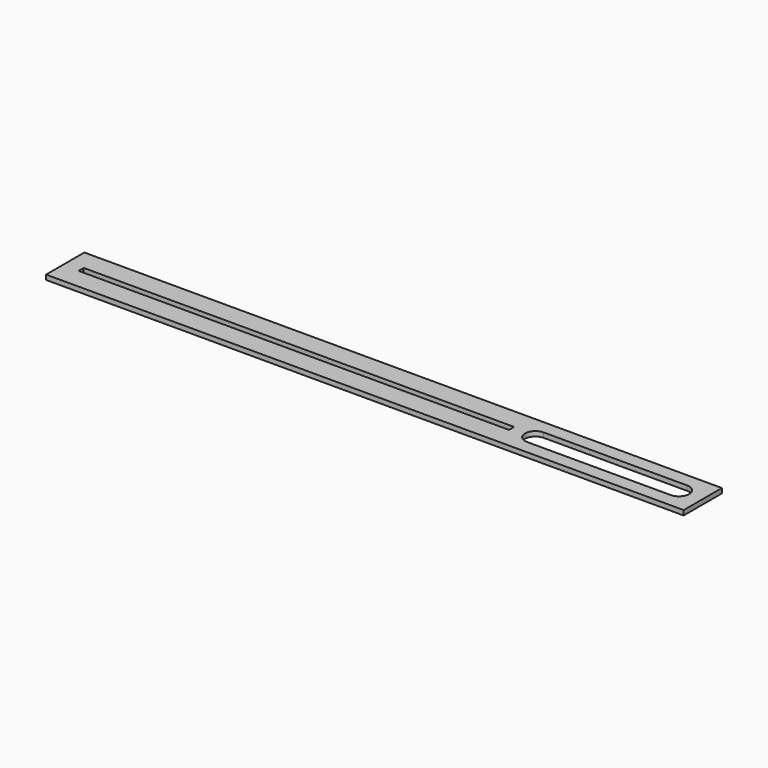
from build123d import *

# Parameters (mm, degrees)
SKETCH_W     = 400
SKETCH_H     = 30
PAD_DEPTH    = 3
SKETCH001_W  = 270
SKETCH001_H  = 4
POCKET_DEPTH = 3.001


with BuildPart() as part:
    # Sketch → Pad (new body)
    with BuildSketch(Plane.XY):
        with Locations((200, 15)):
            Rectangle(SKETCH_W, SKETCH_H)
    extrude(amount=PAD_DEPTH)

    # Sketch001 → Pocket (cut, through all)
    with BuildSketch(Plane.XY):
        with Locations((145, 15)):
            Rectangle(SKETCH001_W, SKETCH001_H)
        with BuildLine():
            ThreePointArc((295, 21.5), (288.5, 15), (295, 8.5))
            Line((295, 8.5), (385, 8.5))
            ThreePointArc((385, 8.5), (391.5, 15), (385, 21.5))
            Line((295, 21.5), (385, 21.5))
        make_face()
    extrude(amount=POCKET_DEPTH, mode=Mode.SUBTRACT)


solid = part.part
